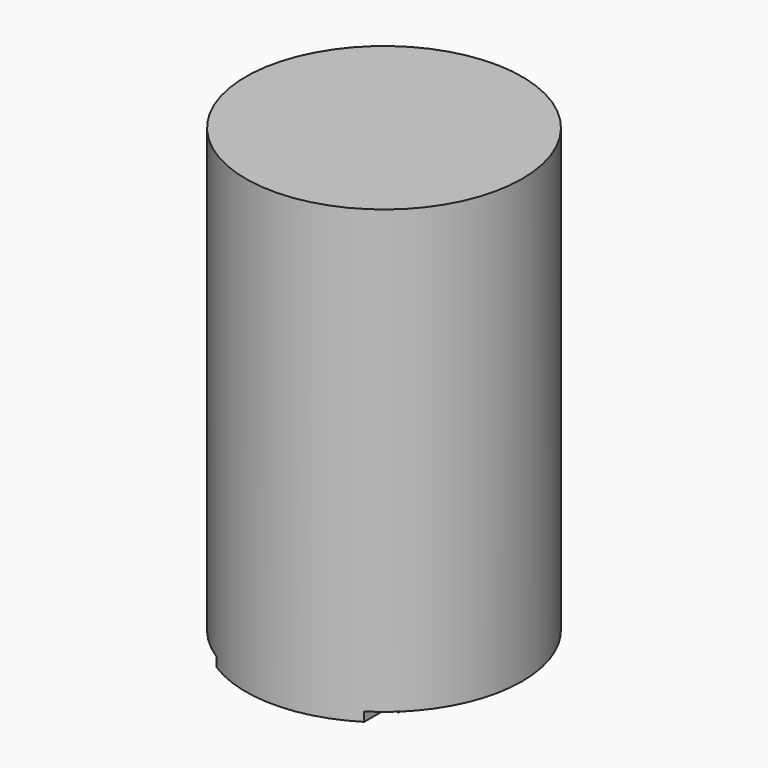
from build123d import *

# Parameters (mm, degrees)
BOX026_W          = 10
BOX026_H          = 10
BOX026_DEPTH      = 0.4
BOX028_W          = 10
BOX028_H          = 10
BOX028_DEPTH      = 0.2
BOX029_W          = 10
BOX029_H          = 10
BOX029_DEPTH      = 0.2
BOX027_W          = 10
BOX027_H          = 10
BOX027_DEPTH      = 0.4
CYLINDER056_R     = 3
CYLINDER056_DEPTH = 10


with BuildPart() as cube025:
    # Box026 → Box026 (new body)
    with BuildSketch(Plane(origin=(1.6, -5, 0), x_dir=(1, 0, 0), z_dir=(0, 0, 1))):
        with Locations((5, 5)):
            Rectangle(BOX026_W, BOX026_H)
    extrude(amount=BOX026_DEPTH)


with BuildPart() as cube027:
    # Box028 → Box028 (new body)
    with BuildSketch(Plane(origin=(-5, 1.6, 0), x_dir=(1, 0, 0), z_dir=(0, 0, 1))):
        with Locations((5, 5)):
            Rectangle(BOX028_W, BOX028_H)
    extrude(amount=BOX028_DEPTH)


with BuildPart() as cube028:
    # Box029 → Box029 (new body)
    with BuildSketch(Plane(origin=(-5, -11.6, 0), x_dir=(1, 0, 0), z_dir=(0, 0, 1))):
        with Locations((5, 5)):
            Rectangle(BOX029_W, BOX029_H)
    extrude(amount=BOX029_DEPTH)


with BuildPart() as fusion003025020005003:
    # Box027 → Box027 (new body)
    with BuildSketch(Plane(origin=(-11.6, -5, 0), x_dir=(1, 0, 0), z_dir=(0, 0, 1))):
        with Locations((5, 5)):
            Rectangle(BOX027_W, BOX027_H)
    extrude(amount=BOX027_DEPTH)

    # Fusion003025020005003: union Cube025, Cube027, Cube028
    add(cube025.part)
    add(cube027.part)
    add(cube028.part)


with BuildPart() as m3_slot:
    # Cylinder056 → Cylinder056 (new body)
    with BuildSketch(Plane.XY):
        Circle(CYLINDER056_R)
    extrude(amount=CYLINDER056_DEPTH)

    # Cut013003032: cut Fusion003025020005003
    add(fusion003025020005003.part, mode=Mode.SUBTRACT)


solid = m3_slot.part
